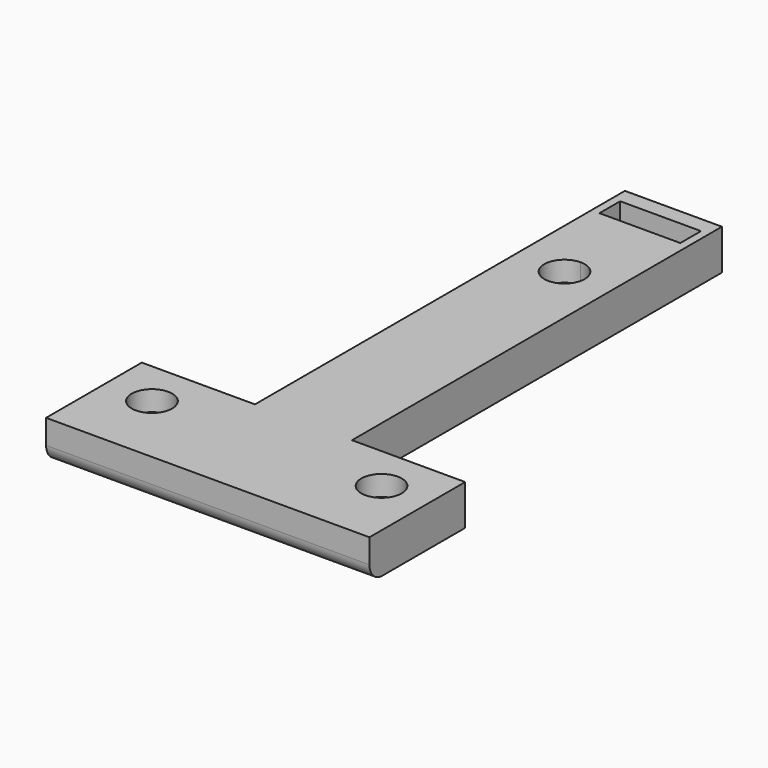
from build123d import *

# Parameters (mm, degrees)
F0_R     = 1.5875
F1_DEPTH = 3.175
F2_R     = 1.27
F4_DEPTH = 1.5875


with BuildPart() as f1:
    # F0 (on Top) → F1 (new body)
    with BuildSketch(Plane.XY):
        with BuildLine():
            ThreePointArc((0, 13.7541), (1.122532, 13.289132), (1.5875, 12.1666))
            ThreePointArc((1.5875, 12.1666), (1.122532, 11.044068), (0, 10.5791))
            Line((0, 10.5791), (0, -22.86))
            Line((0, -22.86), (12.7, -22.86))
            Line((12.7, -22.86), (12.7, -13.462))
            Line((12.7, -13.462), (3.81, -13.462))
            Line((3.81, -13.462), (3.81, 22.86))
            Line((3.81, 22.86), (0, 22.86))
            Line((0, 22.86), (0, 21.600245))
            Line((0, 21.600245), (3.175, 21.600245))
            Line((3.175, 21.600245), (3.175, 19.568245))
            Line((3.175, 19.568245), (0, 19.568245))
            Line((0, 19.568245), (0, 13.7541))
        make_face()
        with Locations((9.017, -17.0688)):
            Circle(F0_R, mode=Mode.SUBTRACT)
        with BuildLine():
            ThreePointArc((0, 10.5791), (-1.5875, 12.1666), (0, 13.7541))
            Line((0, 13.7541), (0, 19.568245))
            Line((0, 19.568245), (-3.175, 19.568245))
            Line((-3.175, 19.568245), (-3.175, 21.600245))
            Line((-3.175, 21.600245), (0, 21.600245))
            Line((0, 21.600245), (0, 22.86))
            Line((0, 22.86), (-3.81, 22.86))
            Line((-3.81, 22.86), (-3.81, -13.462))
            Line((-3.81, -13.462), (-12.7, -13.462))
            Line((-12.7, -13.462), (-12.7, -22.86))
            Line((-12.7, -22.86), (0, -22.86))
            Line((0, -22.86), (0, 10.5791))
        make_face()
        with Locations((-9.017, -17.0688)):
            Circle(F0_R, mode=Mode.SUBTRACT)
    extrude(amount=F1_DEPTH)

    # F2
    f2_edges = [f1.edges().sort_by_distance(p)[0] for p in [
        (0, -22.86, 0),
    ]]
    fillet(f2_edges, radius=F2_R)

    # F3 (on face) → F4 (cut)
    with BuildSketch(Plane(origin=(0, 0, 0), x_dir=(1, 0, 0), z_dir=(0, 0, -1))):
        Polygon((-6.477, 18.53527), (-9.017, 20.001739), (-11.557, 18.53527), (-11.557, 15.60233), (-9.017, 14.135861), (-6.477, 15.60233), align=None)
        Polygon((9.017, 20.001739), (6.477, 18.53527), (6.477, 15.60233), (9.017, 14.135861), (11.557, 15.60233), (11.557, 18.53527), align=None)
        Polygon((2.54, -10.70013), (0, -9.233661), (-2.54, -10.70013), (-2.54, -13.63307), (0, -15.099539), (2.54, -13.63307), align=None)
    extrude(amount=-F4_DEPTH, mode=Mode.SUBTRACT)


solid = f1.part
